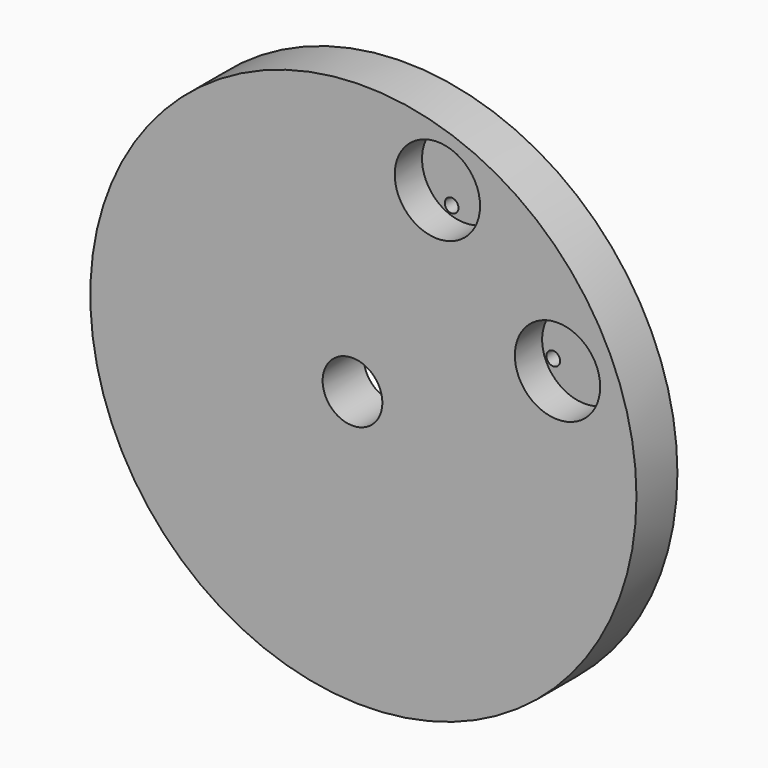
from build123d import *

# Parameters (mm, degrees)
F0_R     = 101.6
F1_DEPTH = 19.05
F2_R     = 15.875
F3_DEPTH = 12.7
F4_R     = 11.1125
F5_DEPTH = 19.05
F6_D     = 5.1054
F6_DEPTH = 19.05
F6_TIP   = 1.5338169022


with BuildPart() as f1:
    # F0 (on Front) → F1 (new body)
    with BuildSketch(Plane.XZ):
        with Locations((4.050075005, 0)):
            Circle(F0_R)
    extrude(amount=F1_DEPTH)

    # F2 (on face) → F3 (cut)
    with BuildSketch(Plane.XZ.offset(19.05)):
        with Locations((31.5849, 76.2762)):
            Circle(F2_R)
        with Locations((76.2762, 31.5849)):
            Circle(F2_R)
    extrude(amount=-F3_DEPTH, mode=Mode.SUBTRACT)

    # F4 (on face) → F5 (cut)
    with BuildSketch(Plane.XZ.offset(19.05)):
        Circle(F4_R)
    extrude(amount=-F5_DEPTH, mode=Mode.SUBTRACT)

    # F6
    with Locations(Plane.XZ.offset(19.05)):
        with Locations((36.449, 88.011), (26.7208, 64.5414), (88.011, 36.449), (64.5414, 26.7208)):
            Hole(F6_D / 2, depth=F6_DEPTH)
            with Locations((0, 0, -(F6_DEPTH + F6_TIP / 2))):  # 118° drill point
                Cone(0, F6_D / 2, F6_TIP, mode=Mode.SUBTRACT)


solid = f1.part
